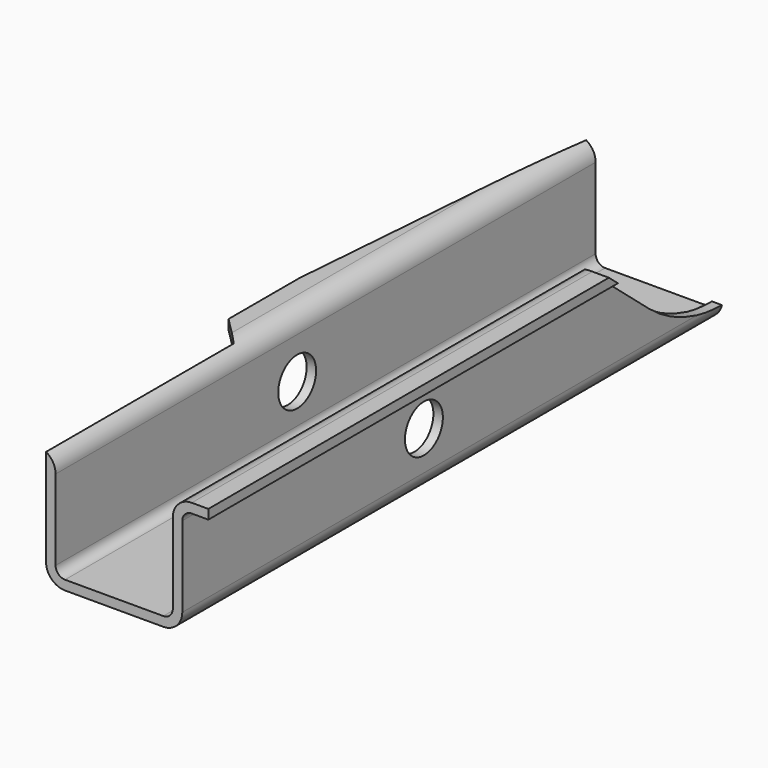
from build123d import *

# Parameters (mm, degrees)
F1_DEPTH = 114
F3_DEPTH = 25
F5_DEPTH = 5
F6_R     = 4
F7_DEPTH = 30
F9_DEPTH = 5


with BuildPart() as f1:
    # F0 (on Front) → F1 (new body)
    with BuildSketch(Plane.XZ):
        with BuildLine():
            ThreePointArc((-11.5, 3.2), (-10.5627416998, 0.9372583002), (-8.3, 0))
            Line((-8.3, 0), (0, 0))
            Line((0, 0), (8.3, 0))
            ThreePointArc((8.3, 0), (10.5627416998, 0.9372583002), (11.5, 3.2))
            Line((11.5, 3.2), (11.5, 16.8))
            ThreePointArc((11.5, 16.8), (11.9686291501, 17.9313708499), (13.1, 18.4))
            Line((13.1, 18.4), (15.9, 18.4))
            Line((15.9, 18.4), (15.9, 20))
            Line((15.9, 20), (13.1, 20))
            ThreePointArc((13.1, 20), (10.8372583002, 19.0627416998), (9.9, 16.8))
            Line((9.9, 16.8), (9.9, 3.2))
            ThreePointArc((9.9, 3.2), (9.4313708499, 2.0686291501), (8.3, 1.6))
            Line((8.3, 1.6), (0, 1.6))
            Line((0, 1.6), (-8.3, 1.6))
            ThreePointArc((-8.3, 1.6), (-9.4313708499, 2.0686291501), (-9.9, 3.2))
            Line((-9.9, 3.2), (-9.9, 16.8))
            ThreePointArc((-9.9, 16.8), (-10.8372583002, 19.0627416998), (-13.1, 20))
            Line((-13.1, 20), (-15.9, 20))
            Line((-15.9, 20), (-15.9, 18.4))
            Line((-15.9, 18.4), (-13.1, 18.4))
            ThreePointArc((-13.1, 18.4), (-11.9686291501, 17.9313708499), (-11.5, 16.8))
            Line((-11.5, 16.8), (-11.5, 3.2))
        make_face()
    extrude(amount=F1_DEPTH)

    # F2 (on face) → F3 (cut)
    with BuildSketch(Plane.XY.offset(1.6)):
        with BuildLine():
            ThreePointArc((-7, -46), (0, -53), (7, -46))
            Line((7, -46), (-7, -46))
        make_face()
        with BuildLine():
            Line((-7, -46), (7, -46))
            ThreePointArc((7, -46), (0, -39), (-7, -46))
        make_face()
        with BuildLine():
            Line((7, -80), (7, -46))
            ThreePointArc((7, -46), (0, -53), (-7, -46))
            Line((-7, -46), (-7, -80))
            ThreePointArc((-7, -80), (0, -73), (7, -80))
        make_face()
        with BuildLine():
            ThreePointArc((-7, -80), (0, -87), (7, -80))
            Line((7, -80), (-7, -80))
        make_face()
        with BuildLine():
            Line((-7, -80), (7, -80))
            ThreePointArc((7, -80), (0, -73), (-7, -80))
        make_face()
    extrude(amount=-F3_DEPTH, mode=Mode.SUBTRACT)

    # F4 (on face) → F5 (cut)
    with BuildSketch(Plane.XY.offset(20)):
        Polygon((-11.5, 0), (-15.9, 0), (-15.9, -55), align=None)
        Polygon((-11.5, -74.4), (-15.9, -70), (-15.9, -114), (-11.5, -114), align=None)
    extrude(amount=-F5_DEPTH, mode=Mode.SUBTRACT)

    # F6 (on face) → F7 (cut)
    with BuildSketch(Plane.YZ.offset(11.5)):
        with Locations((-63, 9.8)):
            Circle(F6_R)
    extrude(amount=-F7_DEPTH, mode=Mode.SUBTRACT)

    # F8 (on face) → F9 (cut, symmetric)
    with BuildSketch(Plane.YZ.offset(11.5)):
        with BuildLine():
            Line((-38.3930956715, 27.5), (-15.5696902422, 8.348888922))
            ThreePointArc((-15.5696902422, 8.348888922), (-8.0505035831, 4.0076844804), (0.5, 2.5))
            Line((0.5, 2.5), (5, 2.5))
            Line((5, 2.5), (5, 27.5))
            Line((5, 27.5), (-38.3930956715, 27.5))
        make_face()
    extrude(amount=F9_DEPTH, both=True, mode=Mode.SUBTRACT)


solid = f1.part
